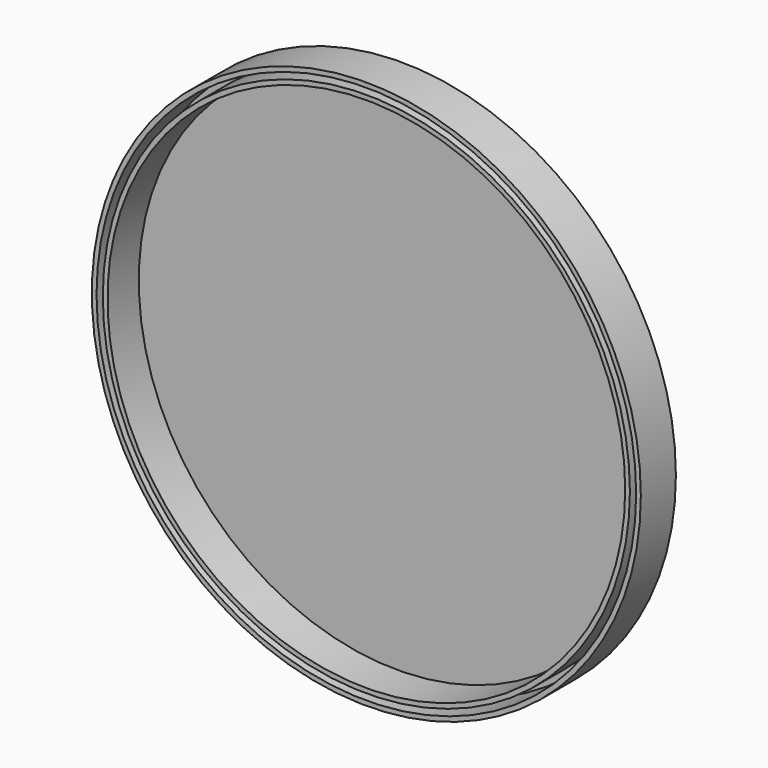
from build123d import *

# Parameters (mm, degrees)
F0_R     = 35.1
F0_R_2   = 34.5
F1_DEPTH = 5
F0_R_3   = 33.6999967694
F0_R_4   = 33.0999977887
F2_DEPTH = 0.6


with BuildPart() as f1:
    # F0 (on Front) → F1 (new body)
    with BuildSketch(Plane.XZ):
        Circle(F0_R)
        Circle(F0_R_2, mode=Mode.SUBTRACT)
    extrude(amount=F1_DEPTH)



with BuildPart() as f1b:
    # F0 (on Front) → F1, piece 2 (new body)
    with BuildSketch(Plane.XZ):
        Circle(F0_R_3)
        Circle(F0_R_4, mode=Mode.SUBTRACT)
    extrude(amount=F1_DEPTH)


with BuildPart() as f1_1:
    add(f1.part)

    add(f1b.part)  # F2 merges F1b
    # F0 (on Front) → F2 (join)
    with BuildSketch(Plane.XZ):
        Circle(F0_R)
        Circle(F0_R_2, mode=Mode.SUBTRACT)
        Circle(F0_R_2)
        Circle(F0_R_3, mode=Mode.SUBTRACT)
        Circle(F0_R_3)
        Circle(F0_R_4, mode=Mode.SUBTRACT)
        Circle(F0_R_4)
    extrude(amount=-F2_DEPTH)


solid = f1_1.part
